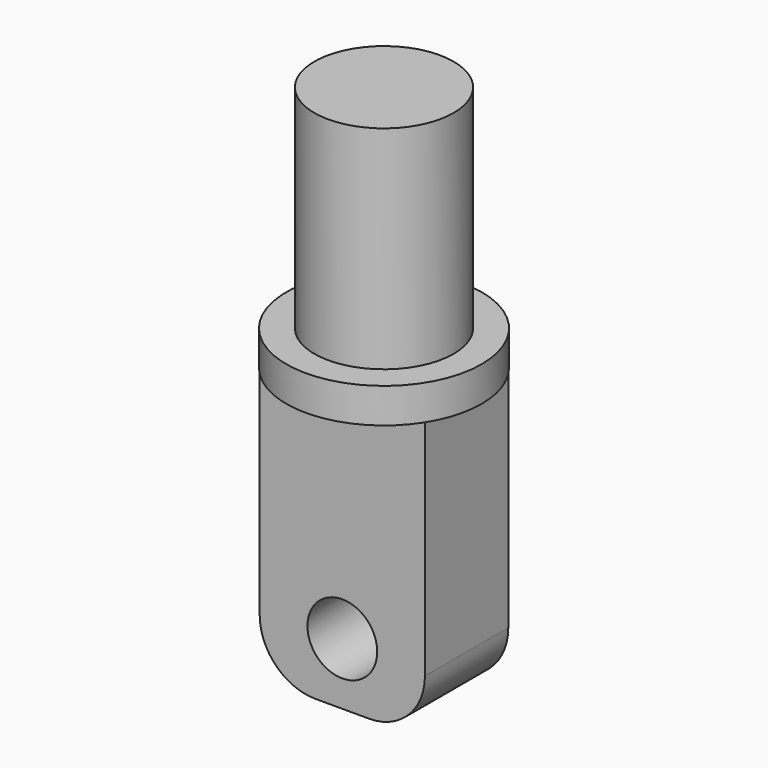
from build123d import *

# Parameters (mm, degrees)
F0_R     = 6.3373
F1_DEPTH = 6.604
F2_R     = 8.89
F3_DEPTH = 3.175
F4_W     = 15.0394464063
F4_H     = 9.4838521599
F5_DEPTH = 25.4
F6_R     = 3.175
F7_DEPTH = 25.4
F8_R     = 5.08
F9_DEPTH = 12.7


with BuildPart() as f1:
    # F0 (on Top) → F1 (new body)
    with BuildSketch(Plane.XY):
        Circle(F0_R)
    extrude(amount=F1_DEPTH)

    # F2 (on face) → F3 (join)
    with BuildSketch(Plane(origin=(0, 0, 0), x_dir=(1, 0, 0), z_dir=(0, 0, -1))):
        Circle(F2_R)
    extrude(amount=F3_DEPTH)

    # F4 (on face) → F5 (join)
    with BuildSketch(Plane(origin=(0, 0, -3.175), x_dir=(1, 0, 0), z_dir=(0, 0, -1))):
        Rectangle(F4_W, F4_H)
    extrude(amount=F5_DEPTH)

    # F6 (on face) → F7 (cut)
    with BuildSketch(Plane.XZ.offset(4.74192608)):
        with Locations((0, -22.9682382196)):
            Circle(F6_R)
    extrude(amount=-F7_DEPTH, mode=Mode.SUBTRACT)

    # F8
    f8_edges = [f1.edges().sort_by_distance(p)[0] for p in [
        (-7.519723, 0, -28.575),
        (7.519723, 0, -28.575),
    ]]
    fillet(f8_edges, radius=F8_R)

    # F9 (add): a face of the model
    f9_faces = [f1.faces().sort_by_distance(p)[0] for p in [
        (0, 0, 6.604),
    ]]
    extrude(f9_faces, amount=F9_DEPTH)


solid = f1.part
